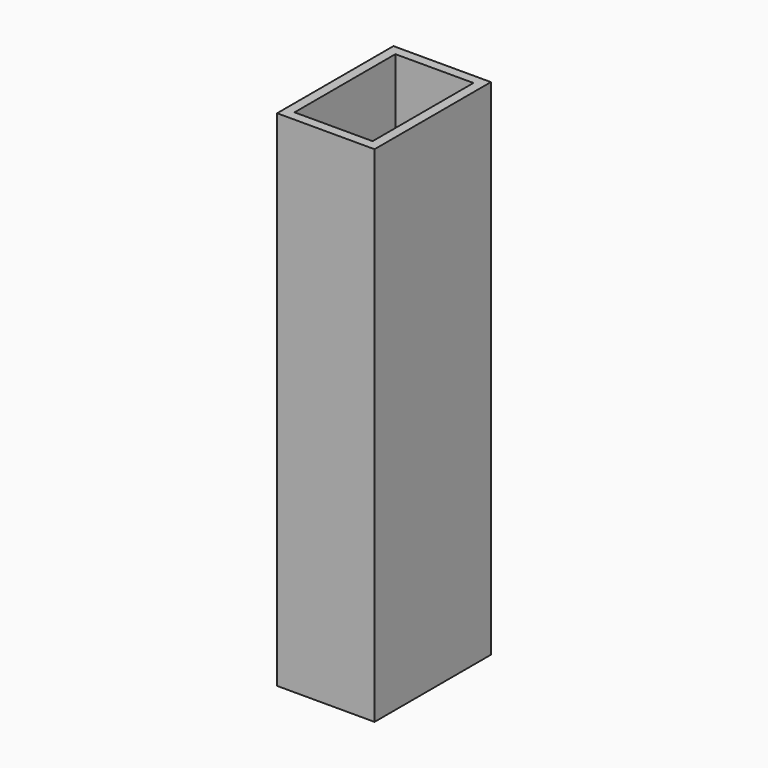
from build123d import *

# Parameters (mm, degrees)
F0_W     = 25.531158
F0_H     = 132.091537
F1_DEPTH = 19.05
F2_T     = -2.54


with BuildPart() as f1:
    # F0 (on Front) → F1 (new body, symmetric)
    with BuildSketch(Plane.XZ):
        with Locations((12.765579, -66.045768)):
            Rectangle(F0_W, F0_H)
    extrude(amount=F1_DEPTH, both=True)

    # F2
    f2_openings = [f1.faces().sort_by_distance(p)[0] for p in [
        (12.765579, 0, 0),
    ]]
    offset(amount=F2_T, openings=f2_openings)


solid = f1.part
